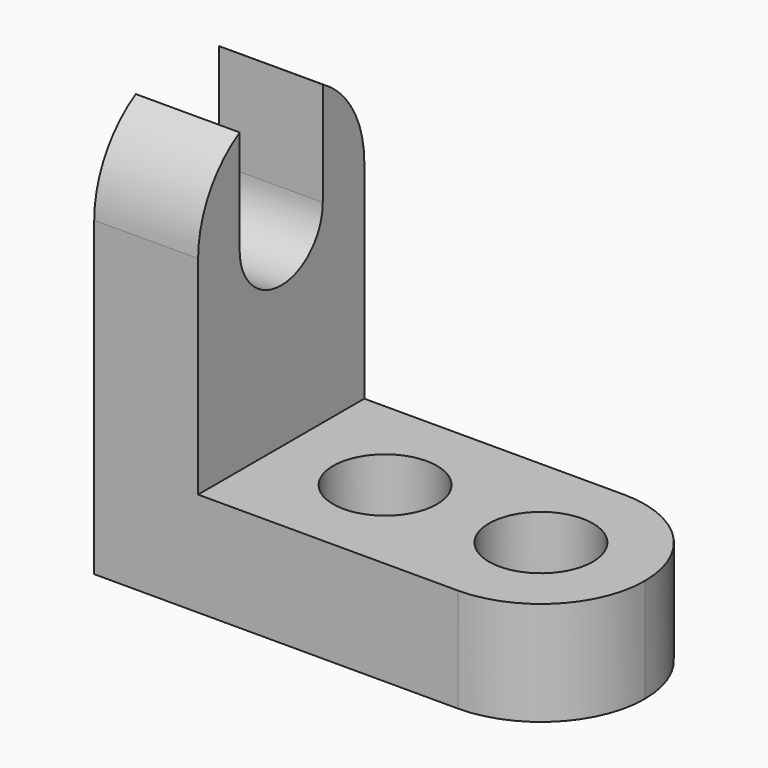
from build123d import *

# Parameters (mm, degrees)
F1_DEPTH = 12.7
F3_DEPTH = 12.7
F5_DEPTH = 12.7
F6_R     = 6.35
F7_DEPTH = 12.7


with BuildPart() as f1:
    # F0 (on Right) → F1 (new body)
    with BuildSketch(Plane.YZ):
        with BuildLine():
            ThreePointArc((25.4, 38.1), (12.7, 50.8), (0, 38.1))
            Line((0, 38.1), (25.4, 38.1))
        make_face()
        with BuildLine():
            Line((25.4, 38.1), (0, 38.1))
            ThreePointArc((0, 38.1), (12.7, 25.4), (25.4, 38.1))
        make_face()
        with BuildLine():
            Line((0, 38.1), (0, 0))
            Line((0, 0), (25.4, 0))
            Line((25.4, 0), (25.4, 38.1))
            ThreePointArc((25.4, 38.1), (12.7, 25.4), (0, 38.1))
        make_face()
    extrude(amount=F1_DEPTH)

    # F2 (on face) → F3 (cut)
    with BuildSketch(Plane.YZ.offset(12.7)):
        with BuildLine():
            Line((19.05, 49.098523), (6.35, 49.098523))
            Line((6.35, 49.098523), (6.35, 36.398523))
            ThreePointArc((6.35, 36.398523), (12.7, 42.748523), (19.05, 36.398523))
            Line((19.05, 36.398523), (19.05, 49.098523))
        make_face()
        with BuildLine():
            ThreePointArc((19.05, 36.398523), (12.7, 42.748523), (6.35, 36.398523))
            Line((6.35, 36.398523), (19.05, 36.398523))
        make_face()
        with BuildLine():
            Line((19.05, 36.398523), (6.35, 36.398523))
            ThreePointArc((6.35, 36.398523), (12.7, 30.048523), (19.05, 36.398523))
        make_face()
        with BuildLine():
            ThreePointArc((19.05, 49.098523), (12.7, 50.8), (6.35, 49.098523))
            Line((6.35, 49.098523), (19.05, 49.098523))
        make_face()
    extrude(amount=-F3_DEPTH, mode=Mode.SUBTRACT)

    # F4 (on Top) → F5 (join)
    with BuildSketch(Plane.XY):
        with BuildLine():
            Line((44.45, 25.4), (44.45, 0))
            ThreePointArc((44.45, 0), (53.430256, 3.719744), (57.15, 12.7))
            ThreePointArc((57.15, 12.7), (53.430256, 21.680256), (44.45, 25.4))
        make_face()
        with BuildLine():
            ThreePointArc((44.45, 25.4), (31.75, 12.7), (44.45, 0))
            Line((44.45, 0), (44.45, 25.4))
        make_face()
        with BuildLine():
            Line((12.7, 25.4), (12.7, 0))
            Line((12.7, 0), (44.45, 0))
            ThreePointArc((44.45, 0), (31.75, 12.7), (44.45, 25.4))
            Line((44.45, 25.4), (12.7, 25.4))
        make_face()
    extrude(amount=F5_DEPTH)

    # F6 (on face) → F7 (cut)
    with BuildSketch(Plane.XY.offset(12.7)):
        with Locations((44.45, 12.7)):
            Circle(F6_R)
        with Locations((25.4, 12.7)):
            Circle(F6_R)
    extrude(amount=-F7_DEPTH, mode=Mode.SUBTRACT)


solid = f1.part
